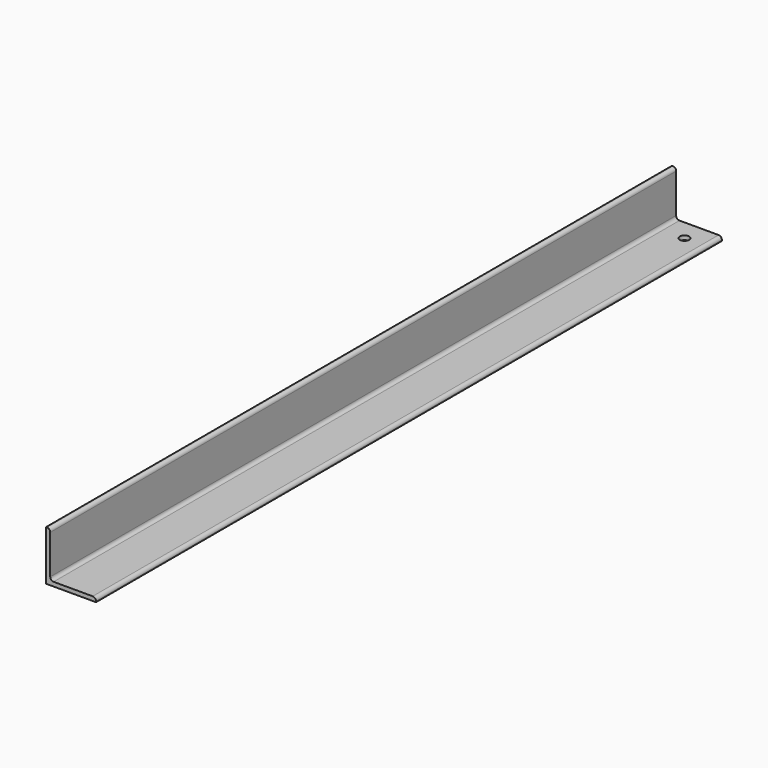
from build123d import *

# Parameters (mm, degrees)
F1_DEPTH = 596.9
F2_R     = 5.08
F3_R     = 7.14375
F4_DEPTH = 25.4


with BuildPart() as f1:
    # F0 (on Front) → F1 (new body, symmetric)
    with BuildSketch(Plane.XZ):
        Polygon((-38.1, -38.1), (38.1, -38.1), (38.1, -31.75), (-31.75, -31.75), (-31.75, 38.1), (-38.1, 38.1), align=None)
    extrude(amount=F1_DEPTH, both=True)

    # F2
    f2_edges = [f1.edges().sort_by_distance(p)[0] for p in [
        (-31.75, 0, 38.1),
        (-31.75, 0, -31.75),
        (38.1, 0, -31.75),
    ]]
    fillet(f2_edges, radius=F2_R)

    # F3 (on face) → F4 (cut)
    with BuildSketch(Plane(origin=(0, 0, -38.1), x_dir=(1, 0, 0), z_dir=(0, 0, -1))):
        with Locations((6.35, -565.15)):
            Circle(F3_R)
    extrude(amount=-F4_DEPTH, mode=Mode.SUBTRACT)


solid = f1.part
